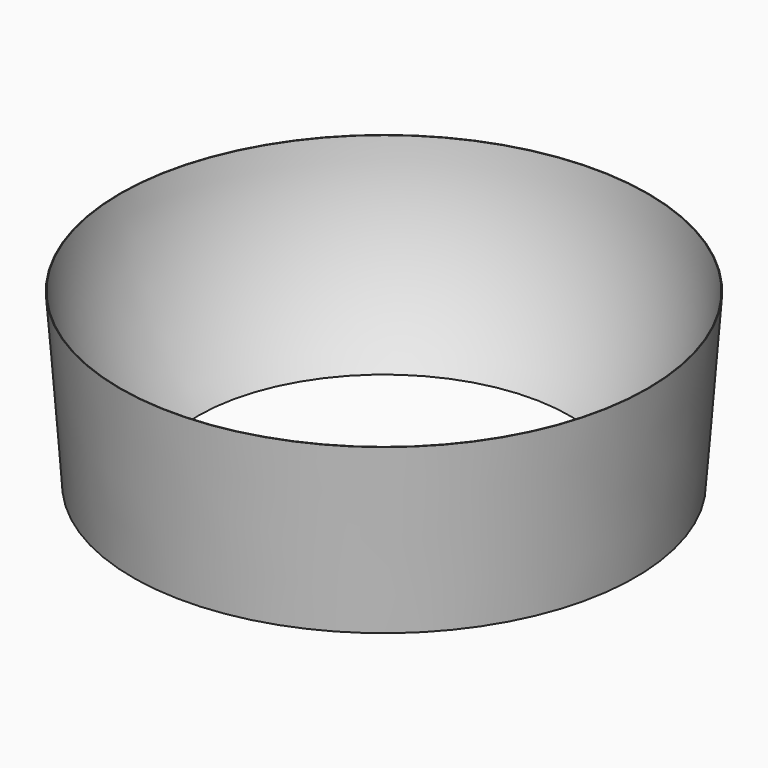
from build123d import *


with BuildPart() as sphere:
    # Sphere → Sphere (revolve)
    with BuildSketch(Plane(origin=(0, 0, 71), x_dir=(1, 0, 0), z_dir=(0, -1, 0))):
        with BuildLine():
            ThreePointArc((0, -31), (31, 0), (0, 31))
            Line((0, 31), (0, -31))
        make_face()
    revolve(axis=Axis((0, 0, 71), (0, 0, 1)))


with BuildPart() as cut002:
    # Cone002 → Cone002 (revolve)
    with BuildSketch(Plane(origin=(0, 0, 49), x_dir=(1, 0, 0), z_dir=(0, -1, 0))):
        Polygon((0, 0), (29.5, 0), (31, 20), (0, 20), align=None)
    revolve(axis=Axis((0, 0, 49), (0, 0, 1)))

    # Cut002: cut Sphere
    add(sphere.part, mode=Mode.SUBTRACT)


with BuildPart() as part_mirroring002:
    # Part__Mirroring002: instance of Cut002
    add(cut002.part.mirror(Plane(origin=(0, 0, 0), x_dir=(0, -1, 0), z_dir=(1, 0, 0))))


solid = part_mirroring002.part
